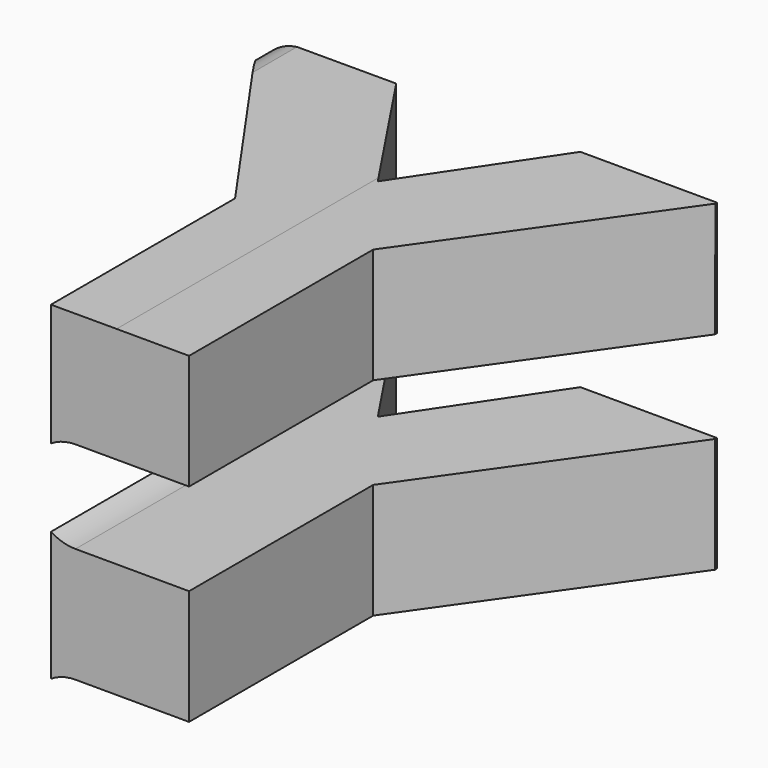
from build123d import *

# Parameters (mm, degrees)
F2_DEPTH = 50
F3_DEPTH = 50


with BuildPart() as f2:
    # F0 (on Top) → F2 (new body, symmetric)
    with BuildSketch(Plane.XY):
        Polygon((-20, 50), (-50, 50), (-15, 0), (-15, -50), (15, -50), (15, 0), (50, 50), (20, 50), (0, 20), align=None)
    extrude(amount=F2_DEPTH, both=True)

    # F1 (on Front) → F3 (intersect, symmetric)
    with BuildSketch(Plane.XZ):
        with BuildLine():
            ThreePointArc((-40.222977, 50.086129), (-47.329808, 47.143242), (-50.244602, 40.024844))
            Line((-50.244602, 40.024844), (-49.754141, -39.972961))
            ThreePointArc((-49.754141, -39.972961), (-46.811419, -46.996671), (-39.776142, -49.911629))
            Line((-39.776142, -49.911629), (-29.693388, -49.933623))
            ThreePointArc((-29.693388, -49.933623), (-22.615948, -47.020121), (-19.671599, -39.955459))
            Line((-19.671599, -39.955459), (-19.649794, -29.958878))
            ThreePointArc((-19.649794, -29.958878), (-16.705445, -22.894216), (-9.628005, -19.980714))
            Line((-9.628005, -19.980714), (49.638809, -20.109991))
            Line((49.638809, -20.109991), (49.638809, 4.890009))
            Line((49.638809, 4.890009), (-9.67163, 5.019381))
            ThreePointArc((-9.67163, 5.019381), (-16.736293, 7.96373), (-19.649794, 15.04117))
            ThreePointArc((-19.649794, 15.04117), (-16.705445, 22.105832), (-9.628005, 25.019333))
            Line((-9.628005, 25.019333), (49.638809, 24.890057))
            Line((49.638809, 24.890057), (49.69334, 49.889997))
            Line((49.69334, 49.889997), (-40.222977, 50.086129))
        make_face()
    extrude(amount=F3_DEPTH, both=True, mode=Mode.INTERSECT)


solid = f2.part
